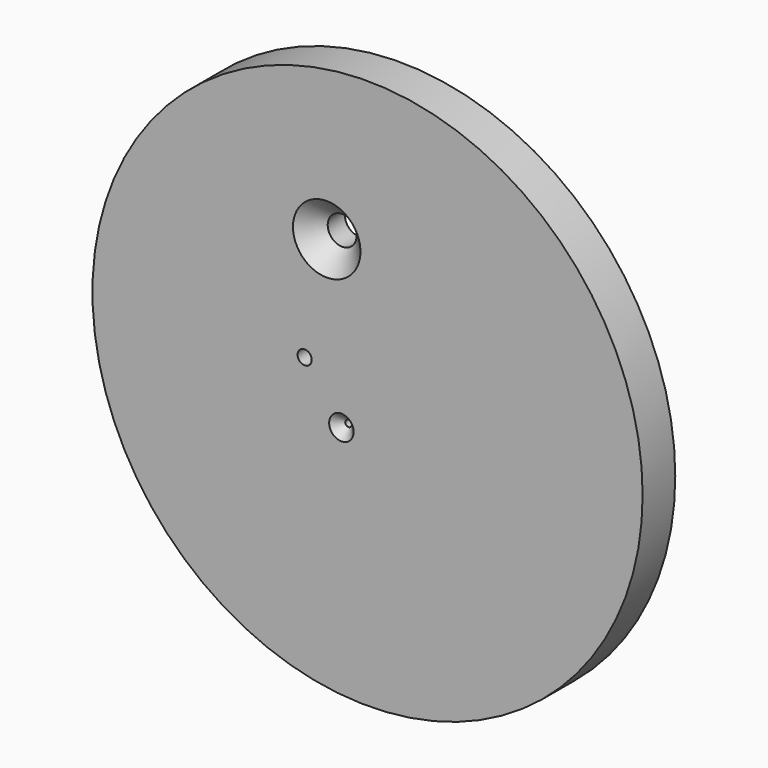
from build123d import *

# Parameters (mm, degrees)
F0_R           = 171.216465226
F1_DEPTH       = 25.4
F3_D           = 8.8
F4_D           = 18
F4_CSINK_D     = 42
F4_CSINK_ANGLE = 90
F5_D           = 4.1
F5_DEPTH       = 12.7
F5_CSINK_D     = 15.2
F5_CSINK_ANGLE = 90
F5_TIP         = 1.231764269


with BuildPart() as f1:
    # F0 (on Front) → F1 (new body)
    with BuildSketch(Plane.XZ):
        Circle(F0_R)
    extrude(amount=F1_DEPTH)

    # F3 (through all)
    with Locations(Plane.XZ.offset(25.4)):
        with Locations((-39.1375060386, 7.0279744302)):
            Hole(F3_D / 2)

    # F4 (through all)
    with Locations(Plane.XZ.offset(25.4)):
        with Locations((-25.4, 76.2)):
            CounterSinkHole(F4_D / 2, F4_CSINK_D / 2, counter_sink_angle=F4_CSINK_ANGLE)

    # F5
    with Locations(Plane.XZ.offset(25.4)):
        with Locations((-16.2783094505, -23.9721943216)):
            CounterSinkHole(F5_D / 2, F5_CSINK_D / 2, depth=F5_DEPTH, counter_sink_angle=F5_CSINK_ANGLE)
            with Locations((0, 0, -(F5_DEPTH + F5_TIP / 2))):  # 118° drill point
                Cone(0, F5_D / 2, F5_TIP, mode=Mode.SUBTRACT)


solid = f1.part
